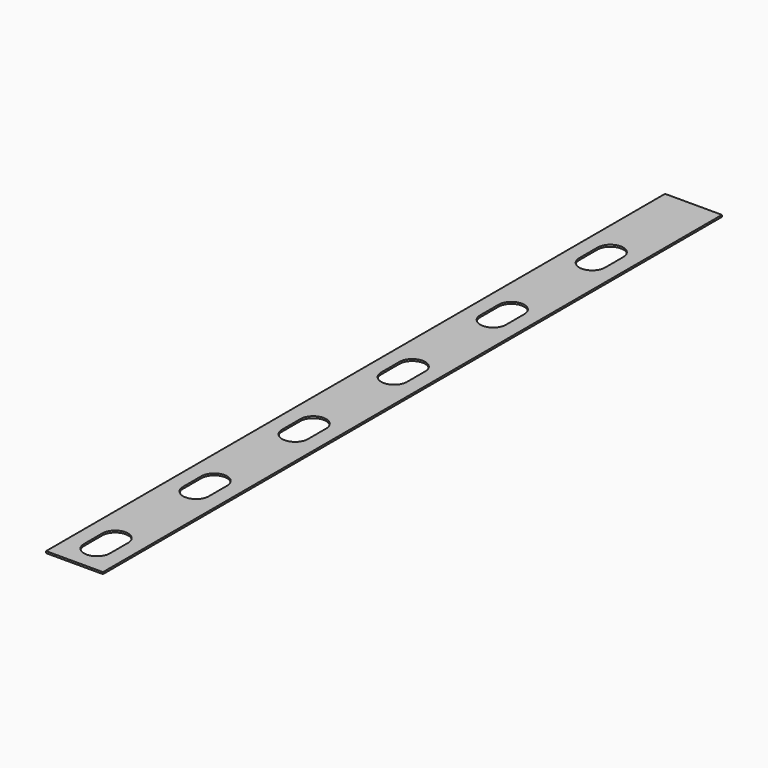
from build123d import *

# Parameters (mm, degrees)
F0_W     = 75
F0_H     = 1020
F1_DEPTH = 2.45


with BuildPart() as f1:
    # F0 (on Top) → F1 (new body)
    with BuildSketch(Plane.XY):
        Rectangle(F0_W, F0_H)
        with BuildLine():
            ThreePointArc((17, -473), (0, -490), (-17, -473))
            Line((-17, -473), (-17, -443))
            ThreePointArc((-17, -443), (0, -426), (17, -443))
            Line((17, -443), (17, -473))
        make_face(mode=Mode.SUBTRACT)
        with BuildLine():
            ThreePointArc((17, -309.78), (0, -326.78), (-17, -309.78))
            Line((-17, -309.78), (-17, -279.78))
            ThreePointArc((-17, -279.78), (0, -262.78), (17, -279.78))
            Line((17, -279.78), (17, -309.78))
        make_face(mode=Mode.SUBTRACT)
        with BuildLine():
            ThreePointArc((17, -146.56), (0, -163.56), (-17, -146.56))
            Line((-17, -146.56), (-17, -116.56))
            ThreePointArc((-17, -116.56), (0, -99.56), (17, -116.56))
            Line((17, -116.56), (17, -146.56))
        make_face(mode=Mode.SUBTRACT)
        with BuildLine():
            ThreePointArc((17, 16.66), (0, -0.34), (-17, 16.66))
            Line((-17, 16.66), (-17, 46.66))
            ThreePointArc((-17, 46.66), (0, 63.66), (17, 46.66))
            Line((17, 46.66), (17, 16.66))
        make_face(mode=Mode.SUBTRACT)
        with BuildLine():
            ThreePointArc((17, 179.88), (0, 162.88), (-17, 179.88))
            Line((-17, 179.88), (-17, 209.88))
            ThreePointArc((-17, 209.88), (0, 226.88), (17, 209.88))
            Line((17, 209.88), (17, 179.88))
        make_face(mode=Mode.SUBTRACT)
        with BuildLine():
            ThreePointArc((17, 343.1), (0, 326.1), (-17, 343.1))
            Line((-17, 343.1), (-17, 373.1))
            ThreePointArc((-17, 373.1), (0, 390.1), (17, 373.1))
            Line((17, 373.1), (17, 343.1))
        make_face(mode=Mode.SUBTRACT)
        Rectangle(F0_W, F0_H)
        with BuildLine():
            ThreePointArc((17, -473), (0, -490), (-17, -473))
            Line((-17, -473), (-17, -443))
            ThreePointArc((-17, -443), (0, -426), (17, -443))
            Line((17, -443), (17, -473))
        make_face(mode=Mode.SUBTRACT)
        with BuildLine():
            ThreePointArc((17, -309.78), (0, -326.78), (-17, -309.78))
            Line((-17, -309.78), (-17, -279.78))
            ThreePointArc((-17, -279.78), (0, -262.78), (17, -279.78))
            Line((17, -279.78), (17, -309.78))
        make_face(mode=Mode.SUBTRACT)
        with BuildLine():
            ThreePointArc((17, -146.56), (0, -163.56), (-17, -146.56))
            Line((-17, -146.56), (-17, -116.56))
            ThreePointArc((-17, -116.56), (0, -99.56), (17, -116.56))
            Line((17, -116.56), (17, -146.56))
        make_face(mode=Mode.SUBTRACT)
        with BuildLine():
            ThreePointArc((17, 16.66), (0, -0.34), (-17, 16.66))
            Line((-17, 16.66), (-17, 46.66))
            ThreePointArc((-17, 46.66), (0, 63.66), (17, 46.66))
            Line((17, 46.66), (17, 16.66))
        make_face(mode=Mode.SUBTRACT)
        with BuildLine():
            ThreePointArc((17, 179.88), (0, 162.88), (-17, 179.88))
            Line((-17, 179.88), (-17, 209.88))
            ThreePointArc((-17, 209.88), (0, 226.88), (17, 209.88))
            Line((17, 209.88), (17, 179.88))
        make_face(mode=Mode.SUBTRACT)
        with BuildLine():
            ThreePointArc((17, 343.1), (0, 326.1), (-17, 343.1))
            Line((-17, 343.1), (-17, 373.1))
            ThreePointArc((-17, 373.1), (0, 390.1), (17, 373.1))
            Line((17, 373.1), (17, 343.1))
        make_face(mode=Mode.SUBTRACT)
    extrude(amount=F1_DEPTH)


solid = f1.part
